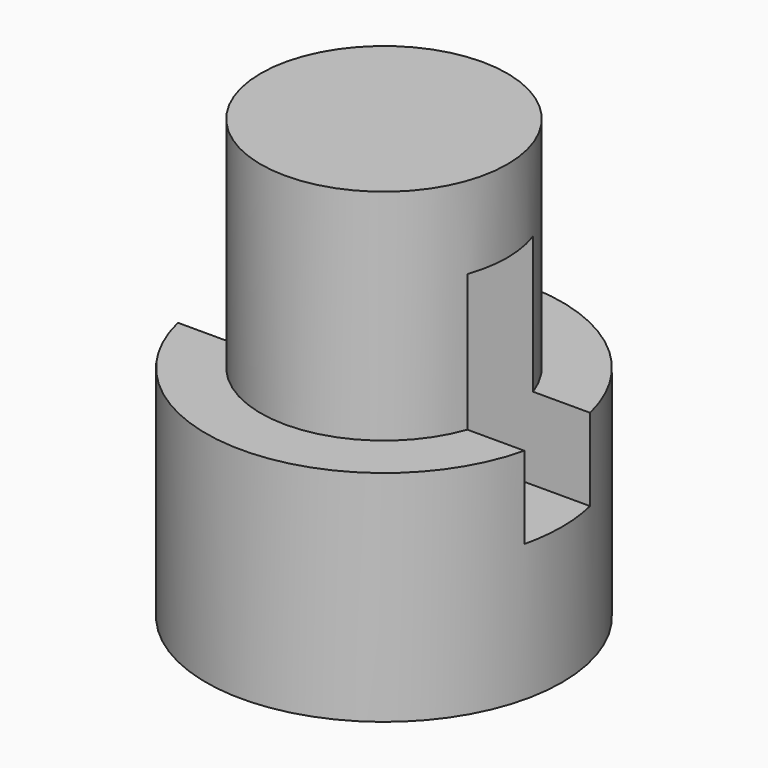
from build123d import *

# Parameters (mm, degrees)
F0_R     = 32.5
F1_DEPTH = 40
F2_R     = 22.5
F3_DEPTH = 40
F4_W     = 15
F4_H     = 40
F5_DEPTH = 32.5


with BuildPart() as f1:
    # F0 (on Top) → F1 (new body)
    with BuildSketch(Plane.XY):
        Circle(F0_R)
    extrude(amount=F1_DEPTH)

    # F2 (on face) → F3 (join)
    with BuildSketch(Plane.XY.offset(40)):
        Circle(F2_R)
    extrude(amount=F3_DEPTH)

    # F4 (on Right) → F5 (cut, symmetric)
    with BuildSketch(Plane.YZ):
        with Locations((0, 45)):
            Rectangle(F4_W, F4_H)
    extrude(amount=F5_DEPTH, both=True, mode=Mode.SUBTRACT)


solid = f1.part
